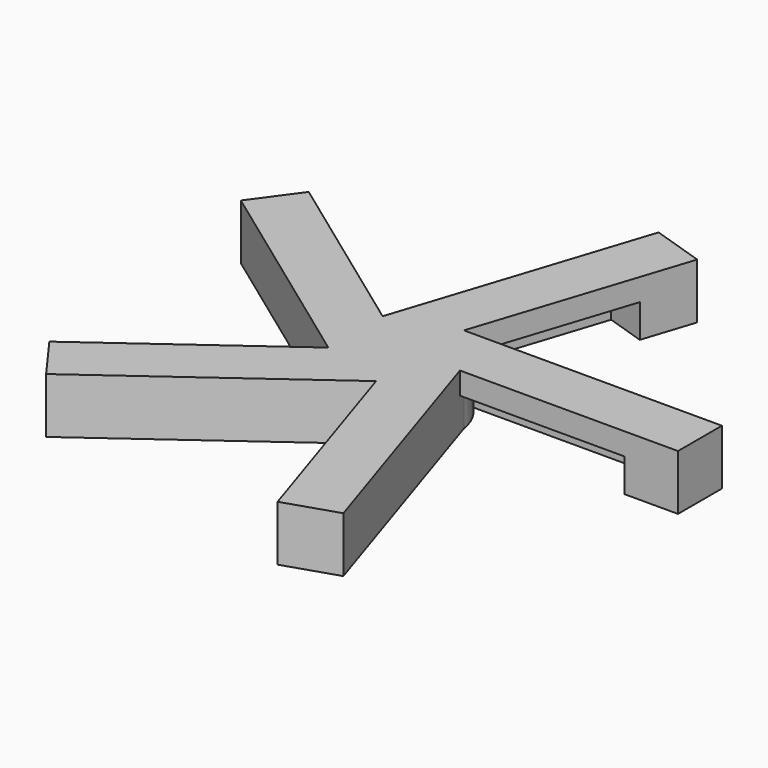
from build123d import *

# Parameters (mm, degrees)
SKETCH_R           = 10.059441
PAD_DEPTH          = 10
SKETCH001_W        = 49.81546
SKETCH001_H        = 9.920586
PAD001_DEPTH       = 3
PAD002_DEPTH       = 7
SKETCH004_W        = 41.042639
SKETCH004_H        = 2.256016
PAD003_DEPTH       = 1
POLARPATTERN_COUNT = 5


with BuildPart() as part:
    # Sketch → Pad (new body)
    with BuildSketch(Plane.XY):
        Circle(SKETCH_R)
    extrude(amount=PAD_DEPTH)

    # Sketch001 (on Face3 of Pad) → Pad001 (join)
    with BuildSketch(Plane.XY.offset(10)):
        with Locations((24.90773, 4.960293)):
            Rectangle(SKETCH001_W, SKETCH001_H)
    pad001 = extrude(amount=-PAD001_DEPTH)

    # Sketch003 (on Face6 of Pad001) → Pad002 (join)
    with BuildSketch(Plane(origin=(0, 0, 7), x_dir=(1, 0, 0), z_dir=(0, 0, -1))):
        Polygon((49.81546, 0), (40.118187, 0), (40.118187, -7.363322), (0, -7.363322), (0, -9.920586), (49.81546, -9.920586), align=None)
    pad002 = extrude(amount=PAD002_DEPTH)

    # Sketch004 → Pad003 (join)
    with BuildSketch(Plane(origin=(0, 0, 7), x_dir=(1, 0, 0), z_dir=(0, 0, -1))):
        with Locations((22.09739, -1.128008)):
            Rectangle(SKETCH004_W, SKETCH004_H)
    pad003 = extrude(amount=PAD003_DEPTH)

    # PolarPattern: Pad001, Pad002, Pad003 ×5 about axis
    polarpattern_axis = Axis((0, 0, 10), (0, 0, 1))
    for i in range(1, POLARPATTERN_COUNT):
        add(pad001.rotate(polarpattern_axis, i * 360 / POLARPATTERN_COUNT))
        add(pad002.rotate(polarpattern_axis, i * 360 / POLARPATTERN_COUNT))
        add(pad003.rotate(polarpattern_axis, i * 360 / POLARPATTERN_COUNT))


solid = part.part
